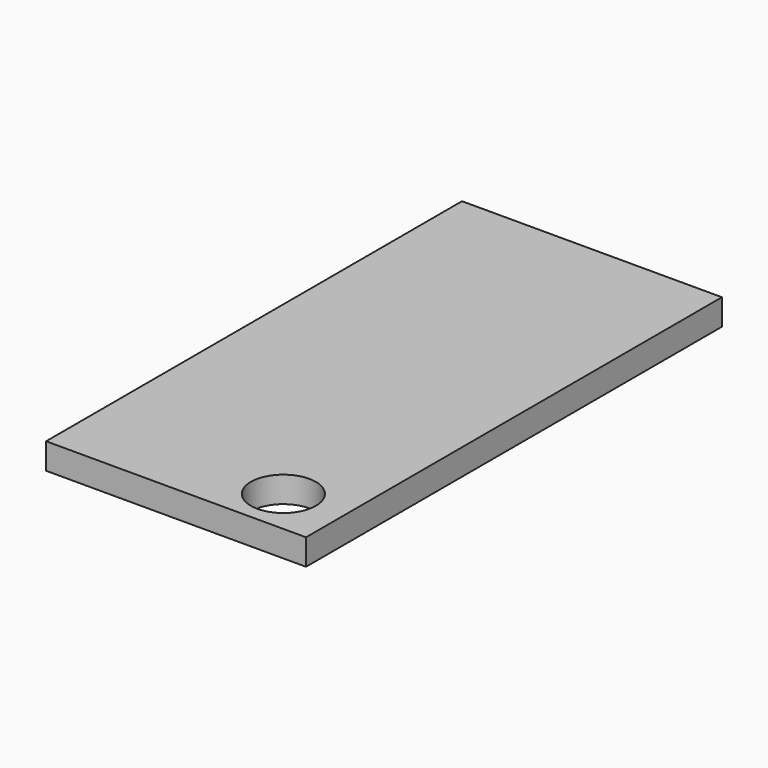
from build123d import *

# Parameters (mm, degrees)
F0_W     = 100
F0_H     = 200
F1_DEPTH = 10
F2_W     = 50
F2_H     = 40
F3_DEPTH = 25
F4_R     = 12.5
F5_DEPTH = 10.001


with BuildPart() as f1:
    # F0 (on Top) → F1 (new body)
    with BuildSketch(Plane.XY):
        with Locations((-24.399735, 7.033082)):
            Rectangle(F0_W, F0_H)
    extrude(amount=F1_DEPTH)

    # F2 (on face) → F3 (join)
    with BuildSketch(Plane(origin=(0, 0, 0), x_dir=(1, 0, 0), z_dir=(0, 0, -1))):
        with Locations((-49.399735, -87.033082)):
            Rectangle(F2_W, F2_H)
    extrude(amount=F3_DEPTH)

    # F4 (on face) → F5 (cut, through all)
    with BuildSketch(Plane(origin=(0, 0, 0), x_dir=(1, 0, 0), z_dir=(0, 0, -1))):
        with Locations((2.629653, 75.147003)):
            Circle(F4_R)
    extrude(amount=-F5_DEPTH, mode=Mode.SUBTRACT)


solid = f1.part
